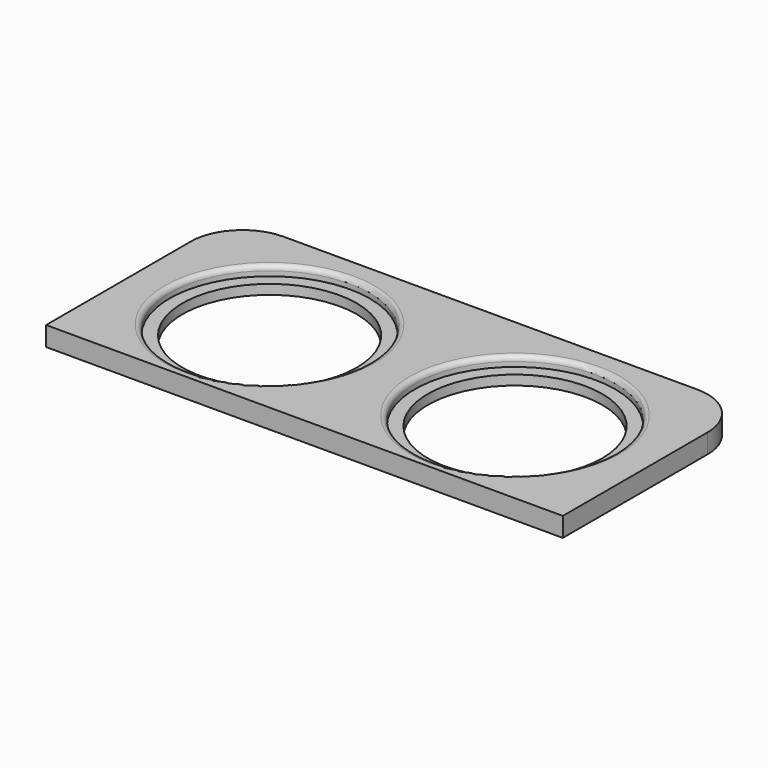
from build123d import *

# Parameters (mm, degrees)
F0_R     = 196.85
F1_DEPTH = 38.1
F0_R_2   = 171.45
F2_DEPTH = 19.05
F3_R     = 9.525


with BuildPart() as f1:
    # F0 (on Top) → F1 (new body)
    with BuildSketch(Plane.XY):
        with BuildLine():
            Line((0, 355.6), (0, 0))
            Line((0, 0), (1016, 0))
            Line((1016, 0), (1016, 355.6))
            ThreePointArc((1016, 355.6), (986.242049, 427.442049), (914.4, 457.2))
            Line((914.4, 457.2), (101.6, 457.2))
            ThreePointArc((101.6, 457.2), (29.757951, 427.442049), (0, 355.6))
        make_face()
        with Locations((266.7, 215.9)):
            Circle(F0_R, mode=Mode.SUBTRACT)
        with Locations((749.3, 215.9)):
            Circle(F0_R, mode=Mode.SUBTRACT)
    extrude(amount=F1_DEPTH)

    # F0 (on Top) → F2 (join)
    with BuildSketch(Plane.XY):
        with Locations((266.7, 215.9)):
            Circle(F0_R)
        with Locations((266.7, 215.9)):
            Circle(F0_R_2, mode=Mode.SUBTRACT)
        with Locations((749.3, 215.9)):
            Circle(F0_R)
        with Locations((749.3, 215.9)):
            Circle(F0_R_2, mode=Mode.SUBTRACT)
    extrude(amount=F2_DEPTH)

    # F3
    f3_edges = [f1.edges().sort_by_distance(p)[0] for p in [
        (69.85, 215.9, 38.1),
        (552.45, 215.9, 38.1),
    ]]
    fillet(f3_edges, radius=F3_R)


solid = f1.part
